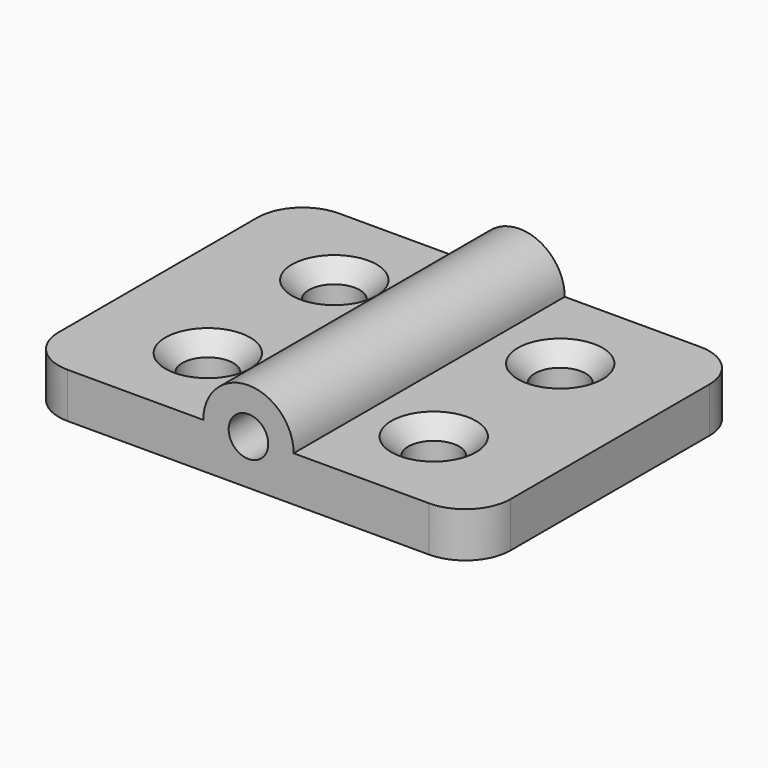
from build123d import *

# Parameters (mm, degrees)
SKETCH_R     = 1.75
PAD_DEPTH    = 15
SKETCH001_R  = 2.25
POCKET_DEPTH = 8.001
FILLET_R     = 4
CHAMFER_SIZE = 1.5


with BuildPart() as part:
    # Sketch → Pad (new body, symmetric)
    with BuildSketch(Plane.XZ):
        with BuildLine():
            Line((20, 4), (20, 0))
            Line((20, 0), (-20, 0))
            Line((-20, 0), (-20, 4))
            Line((-20, 4), (-4, 4))
            ThreePointArc((4, 4), (0, 8), (-4, 4))
            Line((20, 4), (4, 4))
        make_face()
        with Locations((0, 4)):
            Circle(SKETCH_R, mode=Mode.SUBTRACT)
    extrude(amount=PAD_DEPTH, both=True)

    # Sketch001 (on Face2 of Pad) → Pocket (cut, through all)
    with BuildSketch(Plane(origin=(0, 0, 0), x_dir=(1, 0, 0), z_dir=(0, 0, -1))):
        with Locations((10, 7)):
            Circle(SKETCH001_R)
        with Locations((10, -7)):
            Circle(SKETCH001_R)
        with Locations((-10, 7)):
            Circle(SKETCH001_R)
        with Locations((-10, -7)):
            Circle(SKETCH001_R)
    extrude(amount=-POCKET_DEPTH, mode=Mode.SUBTRACT)

    # Fillet
    fillet_edges = [part.edges().sort_by_distance(p)[0] for p in [
        (20, -15, 2),
        (20, 15, 2),
        (-20, 15, 2),
        (-20, -15, 2),
    ]]
    fillet(fillet_edges, radius=FILLET_R)

    # Chamfer
    chamfer_edges = [part.edges().sort_by_distance(p)[0] for p in [
        (-12.25, -7, 4),
        (-12.25, 7, 4),
        (7.75, 7, 4),
        (7.75, -7, 4),
    ]]
    chamfer(chamfer_edges, length=CHAMFER_SIZE)


solid = part.part
